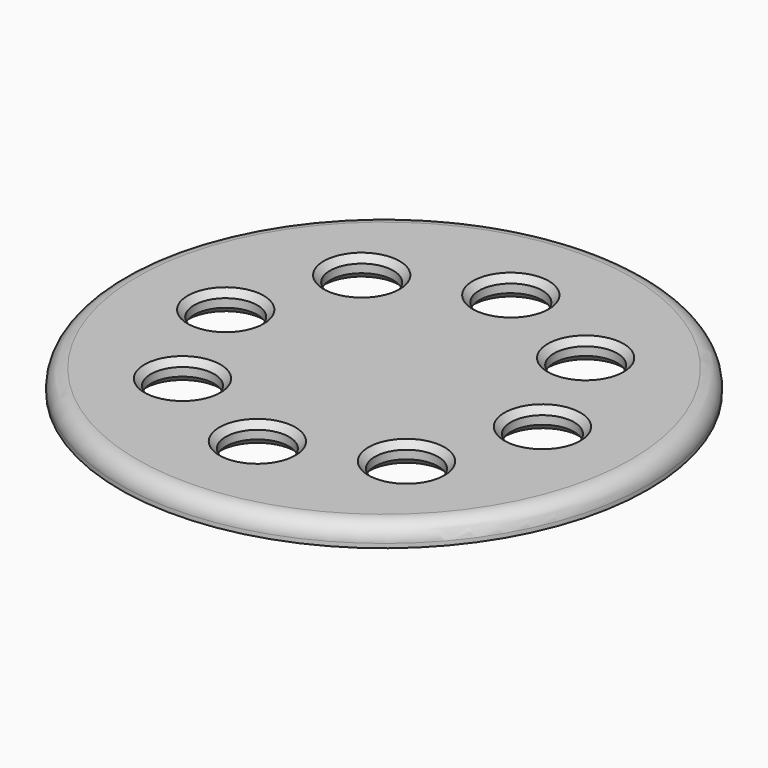
from build123d import *

# Parameters (mm, degrees)
F1_R     = 125
F1_R_2   = 15
F2_DEPTH = 10
F3_R     = 8
F4_SIZE  = 3


with BuildPart() as f2:
    # F1 (on face) → F2 (new body)
    with BuildSketch(Plane.XY):
        Circle(F1_R)
        with Locations((-53.033009, -53.033009)):
            Circle(F1_R_2, mode=Mode.SUBTRACT)
        with Locations((0, -75)):
            Circle(F1_R_2, mode=Mode.SUBTRACT)
        with Locations((53.033009, -53.033009)):
            Circle(F1_R_2, mode=Mode.SUBTRACT)
        with Locations((-75, 0)):
            Circle(F1_R_2, mode=Mode.SUBTRACT)
        with Locations((-53.033009, 53.033009)):
            Circle(F1_R_2, mode=Mode.SUBTRACT)
        with Locations((53.033009, 53.033009)):
            Circle(F1_R_2, mode=Mode.SUBTRACT)
        with Locations((75, 0)):
            Circle(F1_R_2, mode=Mode.SUBTRACT)
        with Locations((0, 75)):
            Circle(F1_R_2, mode=Mode.SUBTRACT)
    extrude(amount=F2_DEPTH)

    # F3
    f3_edges = [f2.edges().sort_by_distance(p)[0] for p in [
        (-125, 0, 10),
    ]]
    fillet(f3_edges, radius=F3_R)

    # F4
    f4_edges = [f2.edges().sort_by_distance(p)[0] for p in [
        (-68.033009, -53.033009, 10),
        (-90, 0, 10),
        (-68.033009, 53.033009, 10),
        (-15, 75, 10),
        (38.033009, 53.033009, 10),
        (60, 0, 10),
        (38.033009, -53.033009, 10),
        (-15, -75, 10),
        (38.033009, -53.033009, 0),
        (60, 0, 0),
        (38.033009, 53.033009, 0),
        (-15, 75, 0),
        (-68.033009, 53.033009, 0),
        (-90, 0, 0),
        (-68.033009, -53.033009, 0),
        (-15, -75, 0),
    ]]
    chamfer(f4_edges, length=F4_SIZE)


solid = f2.part
